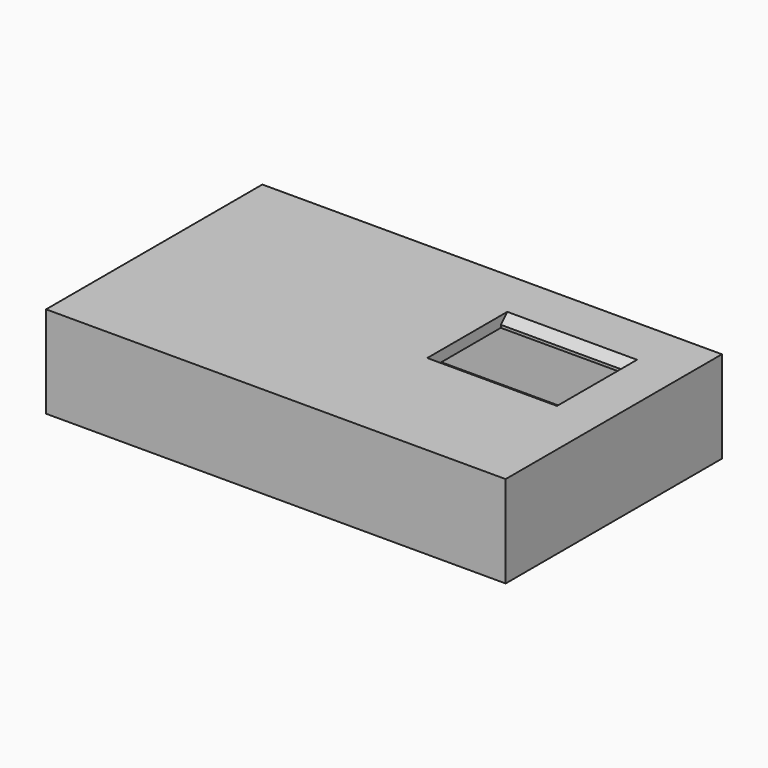
from build123d import *

# Parameters (mm, degrees)
SKETCH012_W                     = 85
SKETCH012_H                     = 50
PAD009_DEPTH                    = 17
SKETCH013_W                     = 14.870205
SKETCH013_H                     = 31.25
POCKET002_DEPTH                 = 11
POCKET003_DEPTH                 = 15
SKETCH018_W                     = 21.5
SKETCH018_H                     = 17
POCKET007_DEPTH                 = 16
CYLINDER002_R                   = 2.25
CYLINDER002_DEPTH               = 12
CYLINDER002_MIRRORED009_2_R     = 2.25
CYLINDER002_MIRRORED009_2_DEPTH = 12
SKETCH037_W                     = 24
SKETCH037_H                     = 17
POCKET014_DEPTH                 = 17.001
CHAMFER003_SIZE                 = 1.5


with BuildPart() as part:
    # Sketch012 → Pad009 (new body)
    with BuildSketch(Plane.XY):
        Rectangle(SKETCH012_W, SKETCH012_H)
    extrude(amount=PAD009_DEPTH)

    # Sketch013 → Pocket002 (cut)
    with BuildSketch(Plane.XY):
        with Locations((-39.027907, -0.625)):
            Rectangle(SKETCH013_W, SKETCH013_H)
    extrude(amount=POCKET002_DEPTH, mode=Mode.SUBTRACT)

    # Sketch014 → Pocket003 (cut)
    with BuildSketch(Plane.XY):
        Polygon((-33.474945, 23.25), (34, 23.25), (34, 16), (40.75, 16), (40.75, -16), (34, -16), (34, -23.25), (-33.474945, -23.25), align=None)
    extrude(amount=POCKET003_DEPTH, mode=Mode.SUBTRACT)

    # Sketch018 → Pocket007 (cut)
    with BuildSketch(Plane.XY):
        with Locations((-19.75, -13)):
            Rectangle(SKETCH018_W, SKETCH018_H)
    extrude(amount=POCKET007_DEPTH, mode=Mode.SUBTRACT)

    # Cylinder002 → Cylinder002 (cut)
    with BuildSketch(Plane(origin=(-37, 19.5, 0), x_dir=(1, 0, 0), z_dir=(0, 0, 1))):
        Circle(CYLINDER002_R)
    cylinder002 = extrude(amount=CYLINDER002_DEPTH, mode=Mode.SUBTRACT)

    # Cylinder002 Mirrored009 2 → Cylinder002 Mirrored009 2 (cut)
    with BuildSketch(Plane(origin=(37, 19.5, 0), x_dir=(-1, 0, 0), z_dir=(0, 0, -1))):
        Circle(CYLINDER002_MIRRORED009_2_R)
    cylinder002_mirrored009_2 = extrude(amount=-CYLINDER002_MIRRORED009_2_DEPTH, mode=Mode.SUBTRACT)

    # Mirrored010: Cylinder002, Cylinder002 Mirrored009 2 across XZ
    add(cylinder002.mirror(Plane.XZ), mode=Mode.SUBTRACT)
    add(cylinder002_mirrored009_2.mirror(Plane.XZ), mode=Mode.SUBTRACT)

    # Sketch037 → Pocket014 (cut, through all)
    with BuildSketch(Plane.XY):
        with Locations((22, 6)):
            Rectangle(SKETCH037_W, SKETCH037_H)
    extrude(amount=POCKET014_DEPTH, mode=Mode.SUBTRACT)

    # Chamfer003
    chamfer003_edges = [part.edges().sort_by_distance(p)[0] for p in [
        (22, 14.5, 17),
    ]]
    chamfer(chamfer003_edges, length=CHAMFER003_SIZE)


solid = part.part
